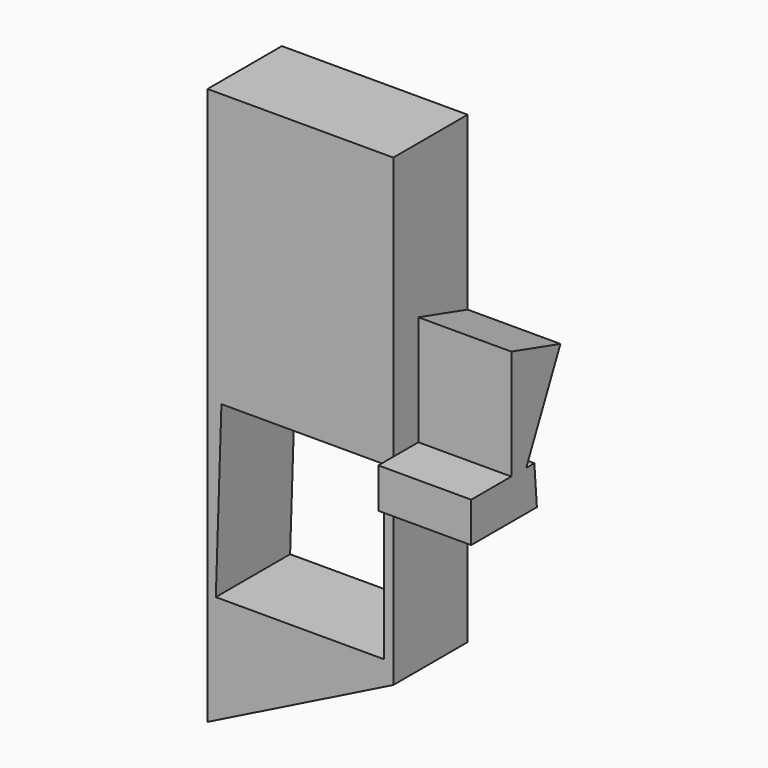
from build123d import *

# Parameters (mm, degrees)
F2_DEPTH = 25.4
F3_W     = 13.6997364461
F3_H     = 10.9366187826
F4_DEPTH = 25.4
F7_DEPTH = 50.8


with BuildPart() as f2:
    # F0 (on Front) → F2 (new body)
    with BuildSketch(Plane.XZ):
        Polygon((-43.6756652357, 82.9696333554), (-43.6756652357, -69.4303666446), (7.1243347643, -44.0303666446), (7.1243347643, 82.9696333554), align=None)
    extrude(amount=F2_DEPTH)

    # F3 (on face) → F4 (join)
    with BuildSketch(Plane.YZ.offset(7.1243347643)):
        Polygon((-8.0585619435, 0), (-8.9219789952, 10.9366187826), (-11.7082890579, 10.9366187826), (-16.8076753616, 0), align=None)
        Polygon((-16.8076753616, 0), (-11.7082890579, 10.9366187826), (-16.8076753616, 10.9366187826), align=None)
        Polygon((-16.8076753616, 10.9366187826), (-11.7082890579, 10.9366187826), (0, 36.0473059118), (-16.8076753616, 41.0203114152), align=None)
        with Locations((-23.6575435847, 5.4683093913)):
            Rectangle(F3_W, F3_H)
    extrude(amount=F4_DEPTH)

    # F6 (on face) → F7 (cut)
    with BuildSketch(Plane.XZ.offset(25.4)):
        Polygon((4.574265326, 8.322226192), (-39.875734674, 8.322226192), (-41.4155621324, -38.6425375293), (4.574265326, -38.6425375293), align=None)
    extrude(amount=-F7_DEPTH, mode=Mode.SUBTRACT)


solid = f2.part
